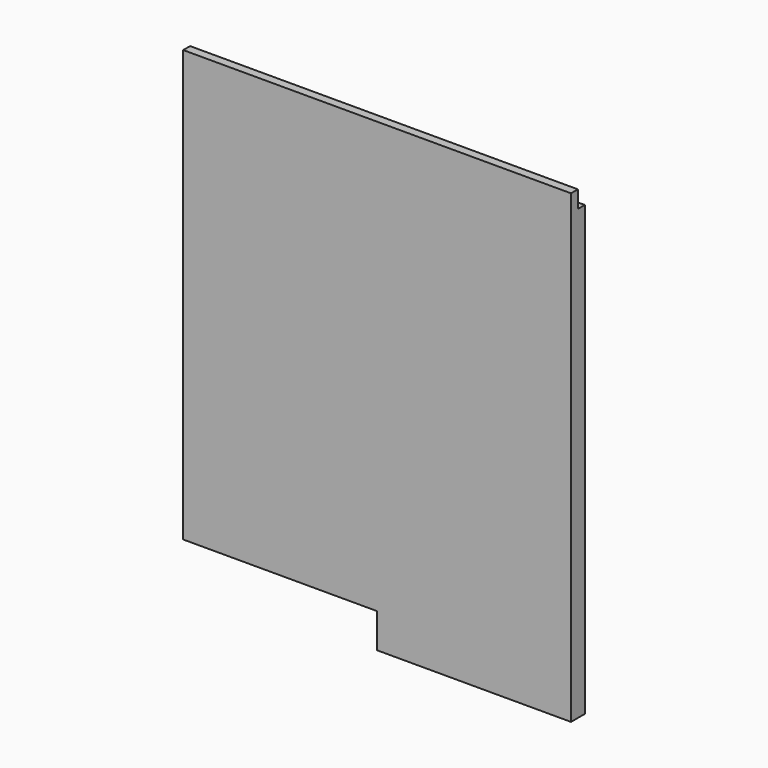
from build123d import *

# Parameters (mm, degrees)
F0_W     = 285.75
F0_H     = 342.9
F1_DEPTH = 12.7
F2_W     = 142.875
F2_H     = 12.7
F3_DEPTH = 25.4
F4_W     = 285.75
F4_H     = 6.35
F5_DEPTH = 12.7


with BuildPart() as f1:
    # F0 (on Front) → F1 (new body)
    with BuildSketch(Plane.XZ):
        Rectangle(F0_W, F0_H)
    extrude(amount=F1_DEPTH)

    # F2 (on face) → F3 (cut)
    with BuildSketch(Plane(origin=(0, 0, -171.45), x_dir=(1, 0, 0), z_dir=(0, 0, -1))):
        with Locations((-71.4375, 6.35)):
            Rectangle(F2_W, F2_H)
    extrude(amount=-F3_DEPTH, mode=Mode.SUBTRACT)

    # F4 (on face) → F5 (cut)
    with BuildSketch(Plane.XY.offset(171.45)):
        with Locations((0, -3.175)):
            Rectangle(F4_W, F4_H)
    extrude(amount=-F5_DEPTH, mode=Mode.SUBTRACT)


solid = f1.part
